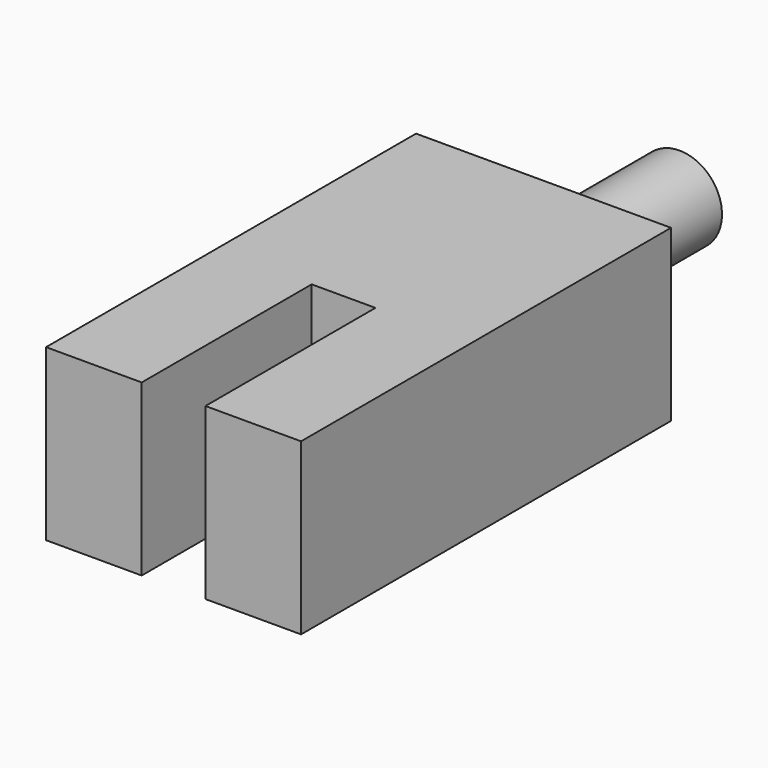
from build123d import *

# Parameters (mm, degrees)
F1_DEPTH = 4
F2_R     = 1
F3_DEPTH = 4


with BuildPart() as f1:
    # F0 (on Top) → F1 (new body)
    with BuildSketch(Plane.XY):
        Polygon((-3.75, -32), (-3.75, -27), (-2.25, -27), (-2.25, -32), (0, -32), (0, -21.280894), (0, -21.118362), (-6, -21.118362), (-6, -32), align=None)
    extrude(amount=F1_DEPTH)

    # F2 (on face) → F3 (join)
    with BuildSketch(Plane(origin=(0, -21.118362, 0), x_dir=(-1, 0, 0), z_dir=(0, 1, 0))):
        with Locations((3, 2)):
            Circle(F2_R)
    extrude(amount=F3_DEPTH)


solid = f1.part
